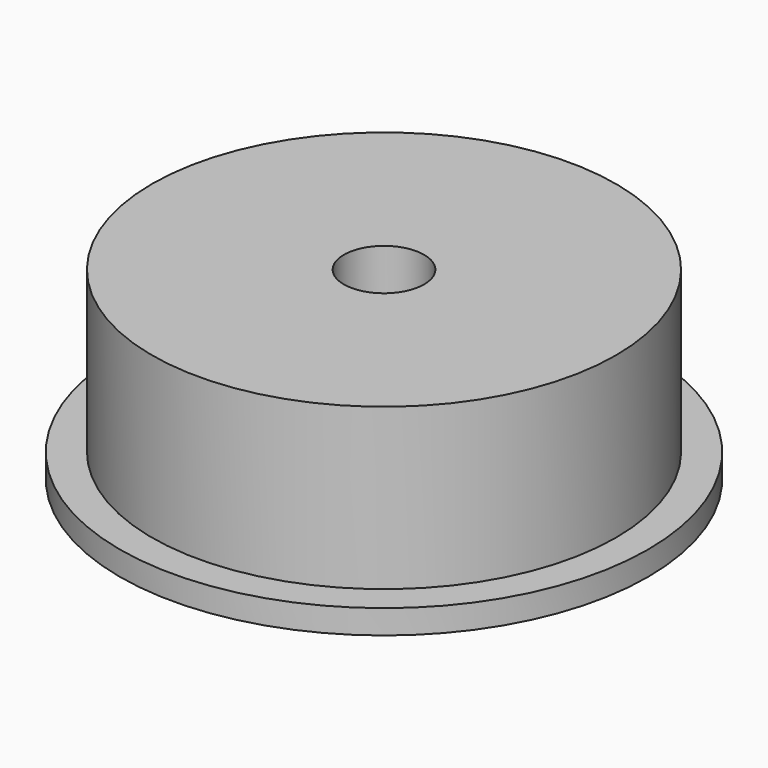
from build123d import *


with BuildPart() as part:
    # Sketch → Revolution (revolve)
    with BuildSketch(Plane.XZ):
        Polygon((2.5, 11.5), (14.45, 11.5), (14.45, 1.5), (16.45, 1.5), (16.45, 0), (2.5, 0), align=None)
    revolve(axis=Axis((0, 0, 0), (0, 0, 1)))


solid = part.part
